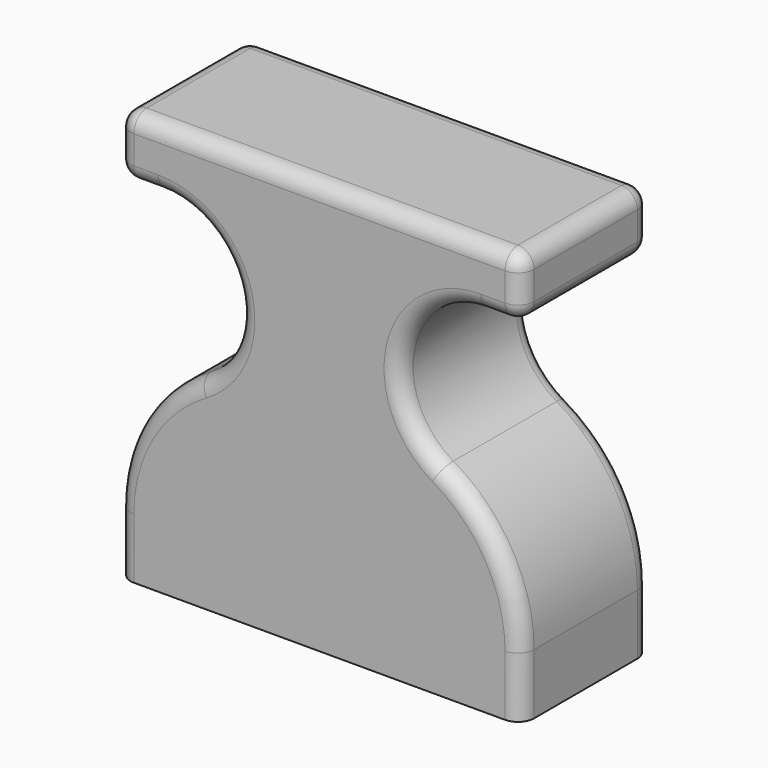
from build123d import *

# Parameters (mm, degrees)
PAD001_DEPTH    = 10
FILLET_R        = 2
SKETCH003_R     = 1
POCKET001_DEPTH = 20


with BuildPart() as part:
    # Sketch002 → Pad001 (new body, symmetric)
    with BuildSketch(Plane.XZ):
        with BuildLine():
            Line((-25, 0), (-25, 7.5))
            ThreePointArc((-15, 24.820508), (-22.320508, 17.5), (-25, 7.5))
            ThreePointArc((-15, 24.820508), (-10.340742, 36.068953), (-20, 43.480762))
            Line((-20, 43.480762), (-25, 43.480762))
            Line((-25, 43.480762), (-25, 50.980762))
            Line((-25, 50.980762), (0, 50.980762))
            Line((0, 50.980762), (0, 0))
            Line((0, 0), (-25, 0))
        make_face()
    pad001 = extrude(amount=PAD001_DEPTH, both=True)

    # Mirrored: Pad001 across Sketch002 V_Axis
    add(pad001.mirror(Plane(origin=(0, 0, 0), x_dir=(0, -1, 0), z_dir=(1, 0, 0))))

    # Fillet
    fillet_edges = [part.edges().sort_by_distance(p)[0] for p in [
        (25, 0, 43.480762),
        (25, 0, 50.980762),
        (25, 10, 47.230762),
        (25, -10, 47.230762),
        (-25, 0, 43.480762),
        (-25, 0, 50.980762),
        (-25, 10, 47.230762),
        (-25, -10, 47.230762),
        (0, -10, 50.980762),
        (0, 10, 50.980762),
        (22.5, -10, 43.480762),
        (10.340742, -10, 36.068953),
        (22.320508, -10, 17.5),
        (25, -10, 3.75),
        (25, 10, 3.75),
        (22.320508, 10, 17.5),
        (10.340742, 10, 36.068953),
        (22.5, 10, 43.480762),
        (-25, 10, 3.75),
        (-22.320508, 10, 17.5),
        (-10.340742, 10, 36.068953),
        (-22.5, 10, 43.480762),
        (-22.5, -10, 43.480762),
        (-10.340742, -10, 36.068953),
        (-22.320508, -10, 17.5),
        (-25, -10, 3.75),
    ]]
    fillet(fillet_edges, radius=FILLET_R)

    # Sketch003 (on Face2 of Fillet) → Pocket001 (cut)
    with BuildSketch(Plane(origin=(0, 0, 0), x_dir=(1, 0, 0), z_dir=(0, 0, -1))):
        with Locations((-10, 0)):
            Circle(SKETCH003_R)
        with Locations((10, 0)):
            Circle(SKETCH003_R)
    extrude(amount=-POCKET001_DEPTH, mode=Mode.SUBTRACT)


solid = part.part
